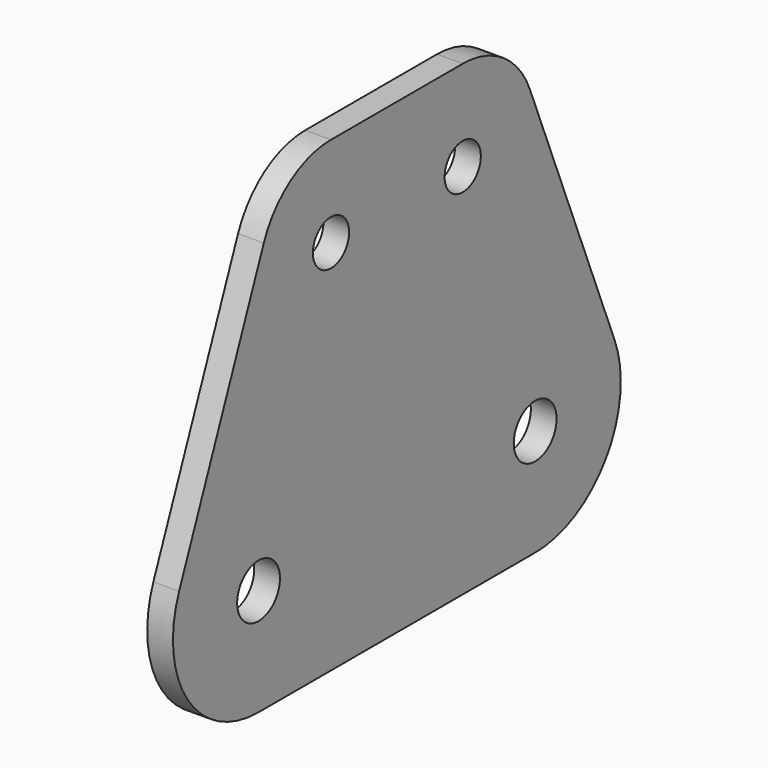
from build123d import *

# Parameters (mm, degrees)
F1_R     = 3.25
F1_R_2   = 2.75
F2_DEPTH = 3.125


with BuildPart() as f2:
    # F1 (on Right) → F2 (new body)
    with BuildSketch(Plane.YZ):
        with BuildLine():
            Line((10, 43.757633), (-10, 43.757633))
            ThreePointArc((-10, 43.757633), (-16.160663, 41.870603), (-20.207625, 36.856948))
            Line((-20.207625, 36.856948), (-33.063557, 4.844646))
            ThreePointArc((-33.063557, 4.844646), (-31.769875, -7.280783), (-21, -13))
            Line((-21, -13), (21, -13))
            ThreePointArc((21, -13), (31.769875, -7.280783), (33.063557, 4.844646))
            Line((33.063557, 4.844646), (20.207625, 36.856948))
            ThreePointArc((20.207625, 36.856948), (16.160663, 41.870603), (10, 43.757633))
        make_face()
        with Locations((-21, 0)):
            Circle(F1_R, mode=Mode.SUBTRACT)
        with Locations((21, 0)):
            Circle(F1_R, mode=Mode.SUBTRACT)
        with Locations((-10, 32.757633)):
            Circle(F1_R_2, mode=Mode.SUBTRACT)
        with Locations((10, 32.757633)):
            Circle(F1_R_2, mode=Mode.SUBTRACT)
    extrude(amount=F2_DEPTH)


solid = f2.part
